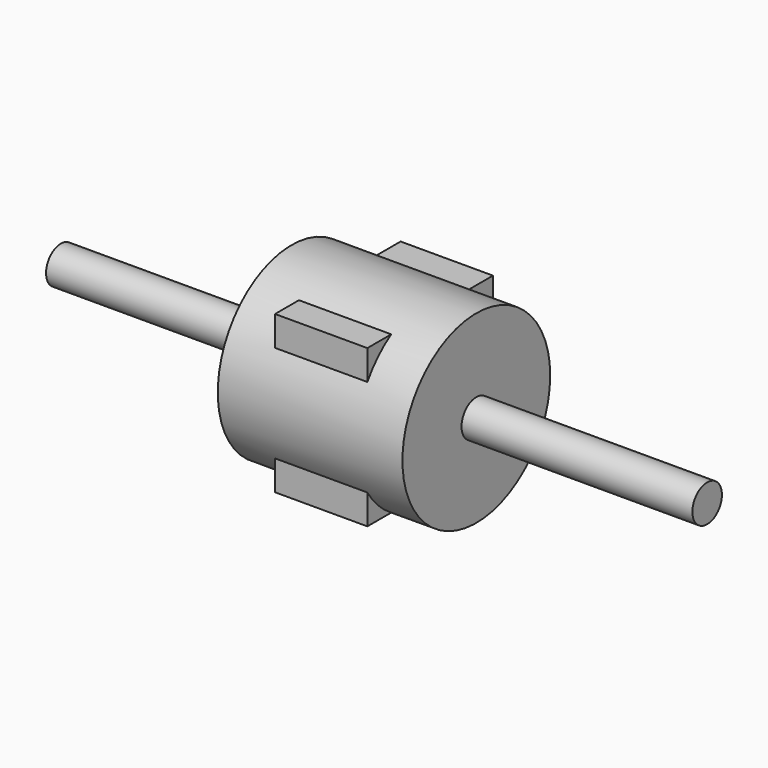
from build123d import *

# Parameters (mm, degrees)
F0_R     = 10
F1_DEPTH = 125
F2_R     = 50
F2_R_2   = 10
F3_DEPTH = 50
F5_DEPTH = 25


with BuildPart() as f1:
    # F0 (on Right) → F1 (new body)
    with BuildSketch(Plane.YZ):
        Circle(F0_R)
    extrude(amount=F1_DEPTH)

    # F2 (on face) → F3 (join)
    with BuildSketch(Plane.YZ.offset(125)):
        Circle(F2_R)
        Circle(F2_R_2, mode=Mode.SUBTRACT)
        Circle(F2_R_2)
    extrude(amount=F3_DEPTH)

    # F4 (on face) → F5 (join)
    with BuildSketch(Plane.YZ.offset(175)):
        with BuildLine():
            Line((-42.5, 42.5), (-42.5, 26.339134))
            ThreePointArc((-42.5, 26.339134), (-35.355339, 35.355339), (-26.339134, 42.5))
            Line((-26.339134, 42.5), (-42.5, 42.5))
        make_face()
        with BuildLine():
            ThreePointArc((26.339134, 42.5), (35.355339, 35.355339), (42.5, 26.339134))
            Line((42.5, 26.339134), (42.5, 42.5))
            Line((42.5, 42.5), (26.339134, 42.5))
        make_face()
        with BuildLine():
            Line((26.339134, -42.5), (42.5, -42.5))
            Line((42.5, -42.5), (42.5, -26.339134))
            ThreePointArc((42.5, -26.339134), (35.355339, -35.355339), (26.339134, -42.5))
        make_face()
        with BuildLine():
            Line((-42.5, -42.5), (-26.339134, -42.5))
            ThreePointArc((-26.339134, -42.5), (-35.355339, -35.355339), (-42.5, -26.339134))
            Line((-42.5, -26.339134), (-42.5, -42.5))
        make_face()
        with BuildLine():
            Line((-26.339134, -42.5), (26.339134, -42.5))
            ThreePointArc((26.339134, -42.5), (35.355339, -35.355339), (42.5, -26.339134))
            Line((42.5, -26.339134), (42.5, 26.339134))
            ThreePointArc((42.5, 26.339134), (35.355339, 35.355339), (26.339134, 42.5))
            Line((26.339134, 42.5), (-26.339134, 42.5))
            ThreePointArc((-26.339134, 42.5), (-35.355339, 35.355339), (-42.5, 26.339134))
            Line((-42.5, 26.339134), (-42.5, -26.339134))
            ThreePointArc((-42.5, -26.339134), (-35.355339, -35.355339), (-26.339134, -42.5))
        make_face()
    extrude(amount=-F5_DEPTH)

    # F6: F1 across face


with BuildPart() as f1_1:
    add(f1.part)
    add(f1.part.mirror(Plane.YZ.offset(175)))


solid = f1_1.part
